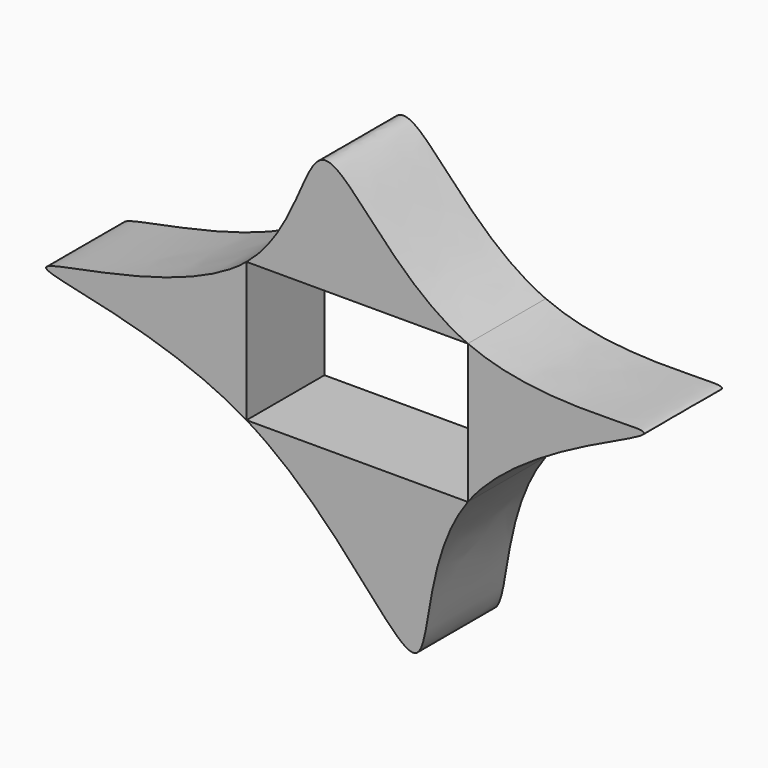
from build123d import *

# Parameters (mm, degrees)
F1_DEPTH = 25.4


with BuildPart() as f1:
    # F0 (on Front) → F1 (new body)
    with BuildSketch(Plane.XZ):
        with BuildLine():
            add(Edge.make_bspline(
                [(0, 0), (-11.6956861938, -15.8081054352), (-6.3394963159, -63.5392271208), (-34.0793971735, -14.2799942658), (-57.7352158725, 0)],
                knots=[0.483869017, 0.483869017, 0.483869017, 0.483869017, 0.5985504595, 0.735221842, 0.735221842, 0.735221842, 0.735221842], degree=3))
            Line((0, 0), (-57.7352158725, 0))
        make_face()
    extrude(amount=F1_DEPTH)


with BuildPart() as f1b:
    # F0 (on Front) → F1, piece 2 (new body)
    with BuildSketch(Plane.XZ):
        with BuildLine():
            add(Edge.make_bspline(
                [(-57.7352158725, 0), (-80.6498304168, 13.8325613862), (-142.5663699976, 18.0315682787), (-74.0803961255, 22.8173940259), (-57.7352158725, 36.3565459847)],
                knots=[0.735221842, 0.735221842, 0.735221842, 0.735221842, 0.867610921, 1, 1, 1, 1], degree=3))
            Line((-57.7352158725, 0), (-57.7352158725, 36.3565459847))
        make_face()
    extrude(amount=F1_DEPTH)


with BuildPart() as f1c:
    # F0 (on Front) → F1, piece 3 (new body)
    with BuildSketch(Plane.XZ):
        with BuildLine():
            Line((-57.7352158725, 36.3565459847), (0, 36.3565459847))
            add(Edge.make_bspline(
                [(-57.7352158725, 36.3565459847), (-44.521123339, 47.3021338608), (-41.256905931, 86.5416845028), (-19.5567828877, 44.9336076077), (0, 36.3565459847)],
                knots=[0, 0, 0, 0, 0.1070285866, 0.230369785, 0.230369785, 0.230369785, 0.230369785], degree=3))
        make_face()
    extrude(amount=F1_DEPTH)


with BuildPart() as f1d:
    # F0 (on Front) → F1, piece 4 (new body)
    with BuildSketch(Plane.XZ):
        with BuildLine():
            Line((0, 36.3565459847), (0, 0))
            add(Edge.make_bspline(
                [(0, 36.3565459847), (19.207165717, 27.9328167393), (75.4255104082, 37.9587088662), (13.4989250969, 18.2453964356), (0, 0)],
                knots=[0.230369785, 0.230369785, 0.230369785, 0.230369785, 0.3515060092, 0.483869017, 0.483869017, 0.483869017, 0.483869017], degree=3))
        make_face()
    extrude(amount=F1_DEPTH)


solid = Compound([f1.part, f1b.part, f1c.part, f1d.part])
